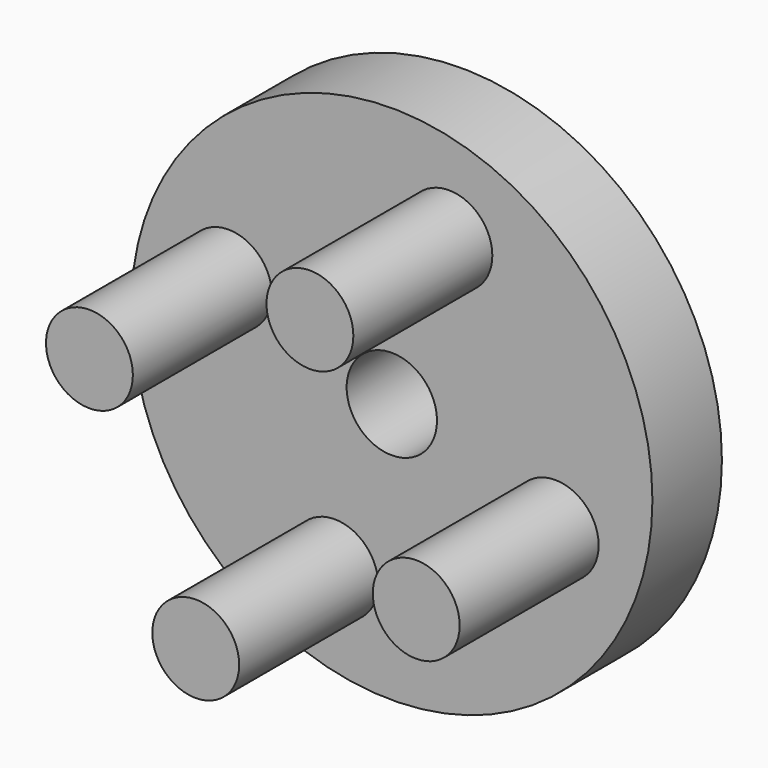
from build123d import *

# Parameters (mm, degrees)
F0_R     = 19.05
F2_DEPTH = 6.35
F1_R     = 3.175
F3_DEPTH = 19.05
F4_R     = 3.302
F5_DEPTH = 25.4


with BuildPart() as f2:
    # F0 (on Front) → F2 (new body)
    with BuildSketch(Plane.XZ):
        Circle(F0_R)
    extrude(amount=F2_DEPTH)

    # F1 (on Front) → F3 (join)
    with BuildSketch(Plane.XZ):
        with Locations((4.173186, 11.943939)):
            Circle(F1_R)
        with Locations((-11.943939, 4.173186)):
            Circle(F1_R)
        with Locations((-4.173186, -11.943939)):
            Circle(F1_R)
        with Locations((11.943939, -4.173186)):
            Circle(F1_R)
    extrude(amount=F3_DEPTH)

    # F4 (on face) → F5 (cut)
    with BuildSketch(Plane.XZ.offset(6.35)):
        Circle(F4_R)
    extrude(amount=-F5_DEPTH, mode=Mode.SUBTRACT)


solid = f2.part
